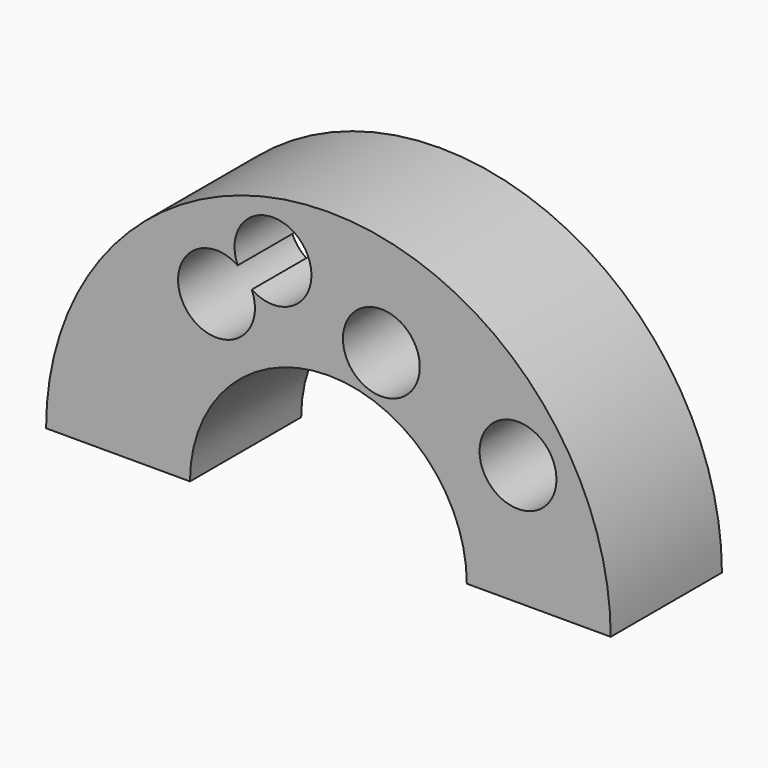
from build123d import *

# Parameters (mm, degrees)
F0_W     = 9.359762
F0_H     = 9.04068
F1_ANGLE = 180
F3_D     = 5


with BuildPart() as f1:
    # F0 (on Top) → F1 (revolve)
    with BuildSketch(Plane.XY):
        with Locations((13.682386, 0)):
            Rectangle(F0_W, F0_H)
    revolve(axis=Axis((0, 1.968751, 0), (0, -1, 0)), revolution_arc=F1_ANGLE)

    # F3 (through all)
    with Locations(Plane.XZ.offset(4.52034)):
        with Locations((-7.277013, 11.296004), (-3.604195, 14.376432), (3.445247, 11.414481), (12.331096, 7.860142)):
            Hole(F3_D / 2)


solid = f1.part
